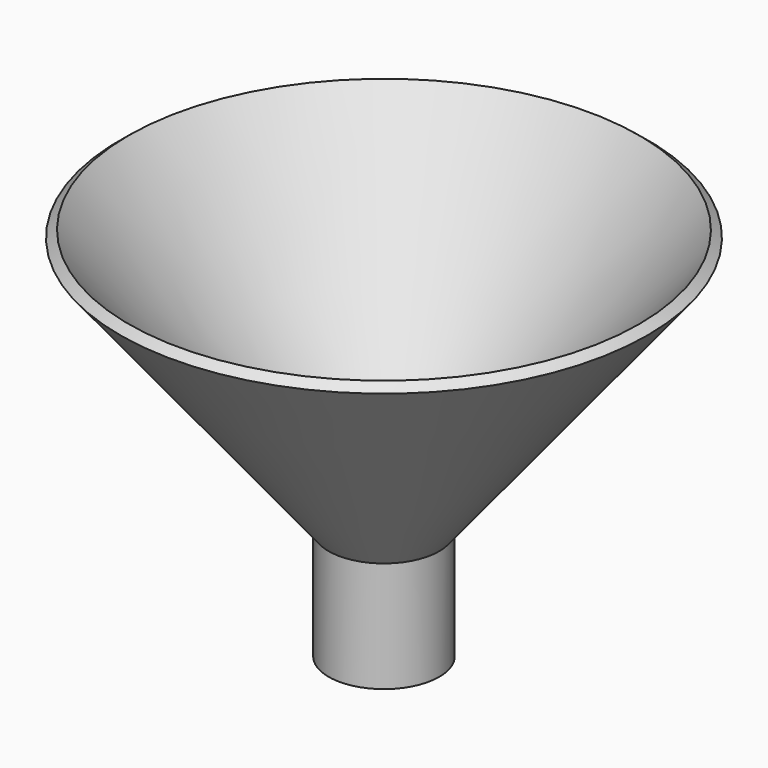
from build123d import *

# Parameters (mm, degrees)
F0_W     = 12.7
F0_H     = 25.4
F3_R     = 6.296655
F4_DEPTH = 25.4


with BuildPart() as f1:
    # F0 (on Front) → F1 (revolve)
    with BuildSketch(Plane.XZ):
        Polygon((-1.975267, 26.996847), (0, 25.4), (47.905418, 84.658003), (45.930152, 86.25485), align=None)
        with Locations((-6.35, 12.7)):
            Rectangle(F0_W, F0_H)
    revolve(axis=Axis((-12.7, 0, 12.7), (0, 0, 1)))

    # F3 (on face) → F4 (cut)
    with BuildSketch(Plane(origin=(0, 0, 0), x_dir=(1, 0, 0), z_dir=(0, 0, -1))):
        with Locations((-13.034211, 0)):
            Circle(F3_R)
    extrude(amount=-F4_DEPTH, mode=Mode.SUBTRACT)


solid = f1.part
